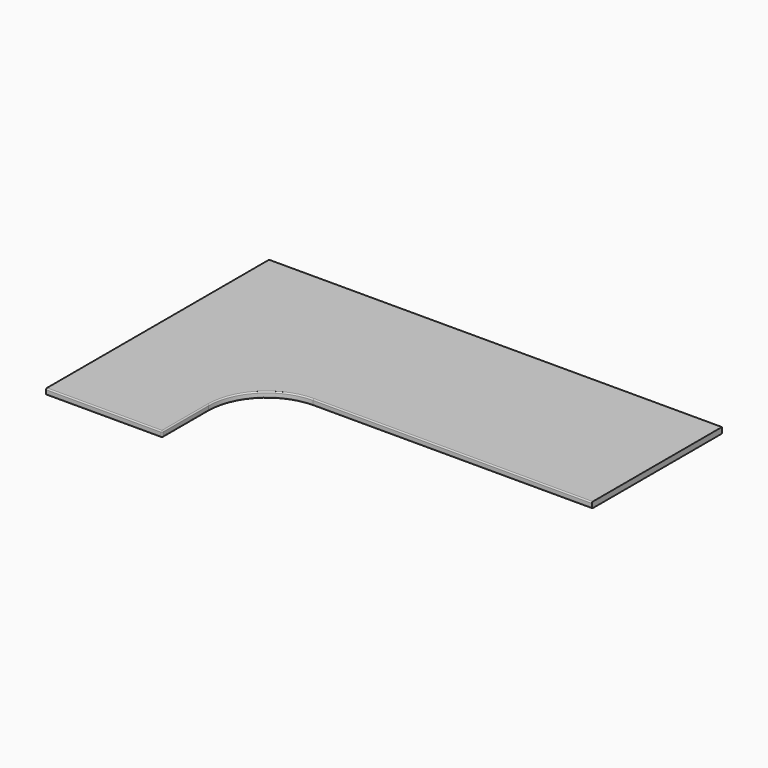
from build123d import *

# Parameters (mm, degrees)
F1_DEPTH = 25
F2_R     = 5


with BuildPart() as f1:
    # F0 (on Top) → F1 (new body)
    with BuildSketch(Plane.XY):
        with BuildLine():
            Line((0, 0), (0, -1200))
            Line((0, -1200), (500, -1200))
            Line((500, -1200), (500, -950))
            ThreePointArc((500, -950), (573.223305, -773.223305), (750, -700))
            Line((750, -700), (1950, -700))
            Line((1950, -700), (1950, 0))
            Line((1950, 0), (0, 0))
        make_face()
    extrude(amount=F1_DEPTH)

    # F2
    f2_edges = [f1.edges().sort_by_distance(p)[0] for p in [
        (1350, -700, 25),
        (1350, -700, 0),
        (250, -1200, 25),
        (250, -1200, 0),
        (500, -1200, 12.5),
    ]]
    fillet(f2_edges, radius=F2_R)


solid = f1.part
